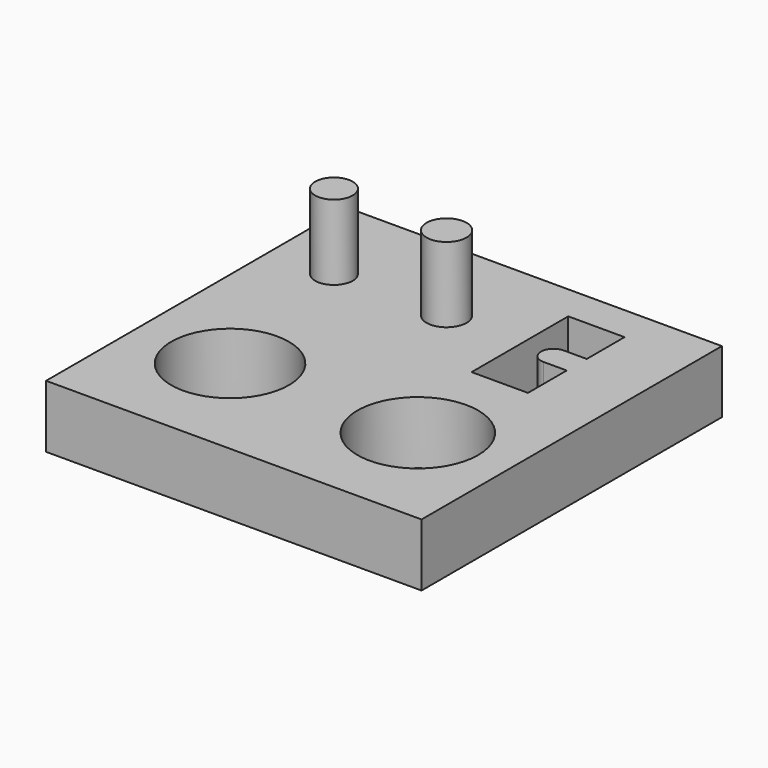
from build123d import *

# Parameters (mm, degrees)
F0_W     = 60
F0_H     = 60
F1_DEPTH = 10
F2_R     = 3
F2_R_2   = 3.2
F3_DEPTH = 12
F4_R     = 9.4
F4_R_2   = 9.65
F5_DEPTH = 10
F7_DEPTH = 9.55


with BuildPart() as f1:
    # F0 (on Top) → F1 (new body)
    with BuildSketch(Plane.XY):
        Rectangle(F0_W, F0_H)
    extrude(amount=F1_DEPTH)

    # F2 (on face) → F3 (join)
    with BuildSketch(Plane.XY.offset(10)):
        with Locations((-20, 15)):
            Circle(F2_R)
        with Locations((-2, 15)):
            Circle(F2_R_2)
    extrude(amount=F3_DEPTH)

    # F4 (on face) → F5 (cut, through all)
    with BuildSketch(Plane.XY.offset(10)):
        with Locations((-15, -12)):
            Circle(F4_R)
        with Locations((15, -12)):
            Circle(F4_R_2)
    extrude(amount=-F5_DEPTH, mode=Mode.SUBTRACT)

    # F6 (on face) → F7 (cut)
    with BuildSketch(Plane.XY.offset(10)):
        with BuildLine():
            Line((19, 24.3), (10, 24.3))
            Line((10, 24.3), (10, 5))
            Line((10, 5), (19, 5))
            Line((19, 5), (19, 12.75))
            Line((19, 12.75), (15.3, 12.75))
            ThreePointArc((15.3, 12.75), (13.3, 14.75), (15.3, 16.75))
            Line((15.3, 16.75), (19, 16.75))
            Line((19, 16.75), (19, 24.3))
        make_face()
    extrude(amount=-F7_DEPTH, mode=Mode.SUBTRACT)


solid = f1.part
